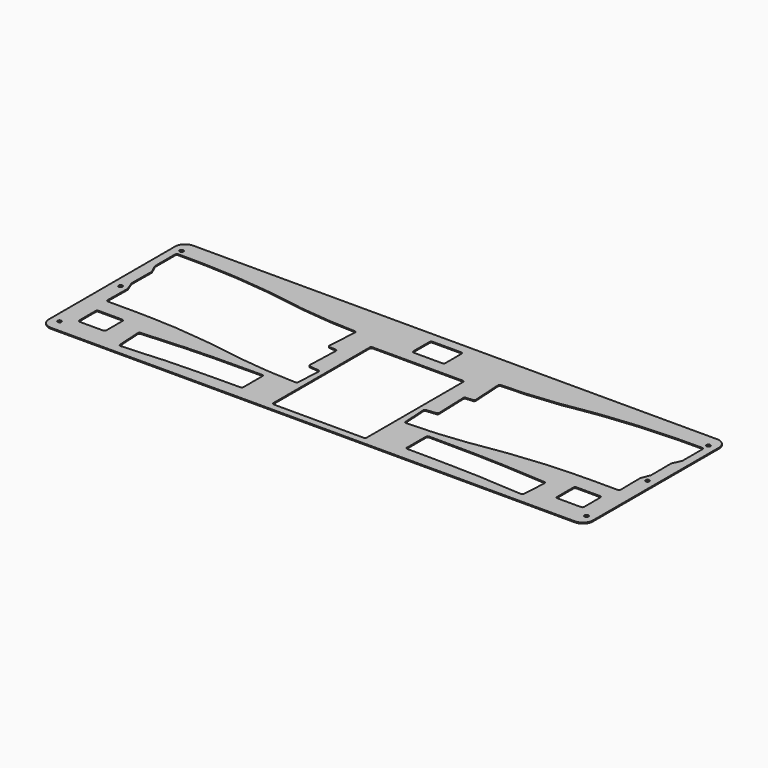
from build123d import *

# Parameters (mm, degrees)
PAD_DEPTH = 0.6


with BuildPart() as part:
    # Sketch → Pad (new body)
    with BuildSketch(Plane.XY):
        with BuildLine():
            add(Edge.make_bspline(
                [(347, -34), (347, -28), (341, -28)],
                knots=[0, 0, 0, 1.570796, 1.570796, 1.570796], degree=2, weights=[1, 0.707107, 1]))
            add(Edge.make_bspline(
                [(31.05, -28), (341, -28)],
                knots=[0, 0, 309.5, 309.5], degree=1))
            add(Edge.make_bspline(
                [(31.05, -28), (25.05, -28), (25.05, -34)],
                knots=[0, 0, 0, 1.570796, 1.570796, 1.570796], degree=2, weights=[1, 0.707107, 1]))
            add(Edge.make_bspline(
                [(25.05, -34), (25.05, -127.2)],
                knots=[0, 0, 93.2, 93.2], degree=1))
            add(Edge.make_bspline(
                [(25.05, -127.2), (25.05, -133.2), (31.05, -133.2)],
                knots=[0, 0, 0, 1.570796, 1.570796, 1.570796], degree=2, weights=[1, 0.707107, 1]))
            add(Edge.make_bspline(
                [(31.05, -133.2), (341, -133.2)],
                knots=[0, 0, 309.95, 309.95], degree=1))
            add(Edge.make_bspline(
                [(341, -133.2), (347, -133.2), (347, -127.2)],
                knots=[0, 0, 0, 1.570796, 1.570796, 1.570796], degree=2, weights=[1, 0.707107, 1]))
            add(Edge.make_bspline(
                [(347, -127.2), (347, -34)],
                knots=[0, 0, 93.2, 93.2], degree=1))
        make_face()
        with BuildLine():
            add(Edge.make_bspline(
                [(289.3198, -126.5268), (279.2218, -125.8517)],
                knots=[0, 0, 10.120542, 10.120542], degree=1))
            add(Edge.make_bspline(
                [(279.2218, -125.8517), (279.203167, -125.850451), (279.1845, -125.8499)],
                knots=[0, 0, 0, 0.037428, 0.037428, 0.037428], degree=2, weights=[1, 0.999825, 1]))
            add(Edge.make_bspline(
                [(279.1845, -125.8499), (263.1413, -125.3779)],
                knots=[0, 0, 16.050142, 16.050142], degree=1))
            add(Edge.make_bspline(
                [(263.1413, -125.3779), (263.135351, -125.377713), (263.1294, -125.3776)],
                knots=[0, 0, 0, 0.012397, 0.012397, 0.012397], degree=2, weights=[1, 0.999981, 1]))
            add(Edge.make_bspline(
                [(263.1294, -125.3776), (250.6408, -125.1591)],
                knots=[0, 0, 12.490511, 12.490511], degree=1))
            add(Edge.make_bspline(
                [(250.6408, -125.1591), (250.635101, -125.158967), (250.6294, -125.1589)],
                knots=[0, 0, 0, 0.011443, 0.011443, 0.011443], degree=2, weights=[1, 0.999984, 1]))
            add(Edge.make_bspline(
                [(250.6294, -125.1589), (235.4036, -125.0672)],
                knots=[0, 0, 15.226076, 15.226076], degree=1))
            add(Edge.make_bspline(
                [(234.4097, -124.0655), (234.407989, -125.061128), (235.4036, -125.0672)],
                knots=[0, 0, 0, 1.566416, 1.566416, 1.566416], degree=2, weights=[1, 0.708654, 1]))
            add(Edge.make_bspline(
                [(234.4097, -124.0655), (234.4339, -110.005)],
                knots=[0, 0, 14.060521, 14.060521], degree=1))
            add(Edge.make_bspline(
                [(235.4428, -109.0068), (234.435673, -108.997835), (234.4339, -110.005)],
                knots=[0, 0, 0, 1.577938, 1.577938, 1.577938], degree=2, weights=[1, 0.704577, 1]))
            add(Edge.make_bspline(
                [(235.4428, -109.0068), (263.5986, -109.2573)],
                knots=[0, 0, 28.156914, 28.156914], degree=1))
            add(Edge.make_bspline(
                [(263.6223, -109.2578), (263.610453, -109.257409), (263.5986, -109.2573)],
                knots=[0, 0, 0, 0.023839, 0.023839, 0.023839], degree=2, weights=[1, 0.999929, 1]))
            add(Edge.make_bspline(
                [(263.6223, -109.2578), (279.674, -109.7809)],
                knots=[0, 0, 16.060221, 16.060221], degree=1))
            add(Edge.make_bspline(
                [(279.6984, -109.782), (279.686207, -109.781303), (279.674, -109.7809)],
                knots=[0, 0, 0, 0.024162, 0.024162, 0.024162], degree=2, weights=[1, 0.999927, 1]))
            add(Edge.make_bspline(
                [(279.6984, -109.782), (290.3783, -110.3911)],
                knots=[0, 0, 10.697255, 10.697255], degree=1))
            add(Edge.make_bspline(
                [(290.3818, -110.3913), (290.38005, -110.391198), (290.3783, -110.3911)],
                knots=[0, 0, 0, 0.002328, 0.002328, 0.002328], degree=2, weights=[1, 0.999999, 1]))
            add(Edge.make_bspline(
                [(290.3818, -110.3913), (305.4234, -111.3015)],
                knots=[0, 0, 15.069114, 15.069114], degree=1))
            add(Edge.make_bspline(
                [(306.3612, -112.3603), (306.421839, -111.361877), (305.4234, -111.3015)],
                knots=[0, 0, 0, 1.571059, 1.571059, 1.571059], degree=2, weights=[1, 0.707014, 1]))
            add(Edge.make_bspline(
                [(306.3612, -112.3603), (305.5052, -126.4735)],
                knots=[0, 0, 14.139135, 14.139135], degree=1))
            add(Edge.make_bspline(
                [(304.4487, -127.4112), (305.44474, -127.469406), (305.5052, -126.4735)],
                knots=[0, 0, 0, 1.568533, 1.568533, 1.568533], degree=2, weights=[1, 0.707907, 1]))
            add(Edge.make_bspline(
                [(304.4487, -127.4112), (289.3281, -126.5274)],
                knots=[0, 0, 15.146407, 15.146407], degree=1))
            add(Edge.make_bspline(
                [(289.3198, -126.5268), (289.323949, -126.527117), (289.3281, -126.5274)],
                knots=[0, 0, 0, 0.008124, 0.008124, 0.008124], degree=2, weights=[1, 0.999992, 1]))
        make_face(mode=Mode.SUBTRACT)
        with BuildLine():
            add(Edge.make_bspline(
                [(336.8372, -96.3), (337.849962, -96.29998), (337.8371, -95.2873)],
                knots=[0, 0, 0, 1.583477, 1.583477, 1.583477], degree=2, weights=[1, 0.702609, 1]))
            add(Edge.make_bspline(
                [(337.6525, -80.7951), (337.8371, -95.2873)],
                knots=[0, 0, 14.493376, 14.493376], degree=1))
            add(Edge.make_bspline(
                [(337.7211, -80.4182), (337.650026, -80.599957), (337.6525, -80.7951)],
                knots=[0, 0, 0, 0.385435, 0.385435, 0.385435], degree=2, weights=[1, 0.981487, 1]))
            add(Edge.make_bspline(
                [(339.6801, -75.4082), (337.7211, -80.4182)],
                knots=[0, 0, 5.379385, 5.379385], degree=1))
            add(Edge.make_bspline(
                [(339.6801, -75.4082), (339.749987, -75.229384), (339.7487, -75.0374)],
                knots=[0, 0, 0, 0.379286, 0.379286, 0.379286], degree=2, weights=[1, 0.982072, 1]))
            add(Edge.make_bspline(
                [(339.6515, -60.4231), (339.7487, -75.0374)],
                knots=[0, 0, 14.614623, 14.614623], degree=1))
            add(Edge.make_bspline(
                [(339.7435, -59.9974), (339.649999, -60.199984), (339.6515, -60.4231)],
                knots=[0, 0, 0, 0.439135, 0.439135, 0.439135], degree=2, weights=[1, 0.975992, 1]))
            add(Edge.make_bspline(
                [(341.958, -55.1994), (339.7435, -59.9974)],
                knots=[0, 0, 5.284393, 5.284393], degree=1))
            add(Edge.make_bspline(
                [(341.958, -55.1994), (342.049992, -54.999999), (342.05, -54.7804)],
                knots=[0, 0, 0, 0.432209, 0.432209, 0.432209], degree=2, weights=[1, 0.97674, 1]))
            add(Edge.make_bspline(
                [(342.05, -40.0086), (342.05, -54.7804)],
                knots=[0, 0, 14.7718, 14.7718], degree=1))
            add(Edge.make_bspline(
                [(342.05, -40.0086), (342.050037, -38.999925), (341.0414, -39.0086)],
                knots=[0, 0, 0, 1.579433, 1.579433, 1.579433], degree=2, weights=[1, 0.704047, 1]))
            add(Edge.make_bspline(
                [(326.65, -39.1319), (341.0414, -39.0086)],
                knots=[0, 0, 14.391928, 14.391928], degree=1))
            add(Edge.make_bspline(
                [(321.75, -39.3), (326.65, -39.1319)],
                knots=[0, 0, 4.902883, 4.902883], degree=1))
            add(Edge.make_bspline(
                [(306.75, -40.0387), (321.75, -39.3)],
                knots=[0, 0, 15.018178, 15.018178], degree=1))
            add(Edge.make_bspline(
                [(301.65, -40.4868), (306.75, -40.0387)],
                knots=[0, 0, 5.119648, 5.119648], degree=1))
            add(Edge.make_bspline(
                [(286.75, -42), (301.65, -40.4868)],
                knots=[0, 0, 14.976641, 14.976641], degree=1))
            add(Edge.make_bspline(
                [(281.85, -42.6), (286.75, -42)],
                knots=[0, 0, 4.936598, 4.936598], degree=1))
            add(Edge.make_bspline(
                [(266.85, -44.9), (281.85, -42.6)],
                knots=[0, 0, 15.175309, 15.175309], degree=1))
            add(Edge.make_bspline(
                [(262.95, -45.6), (266.85, -44.9)],
                knots=[0, 0, 3.962323, 3.962323], degree=1))
            add(Edge.make_bspline(
                [(248.05, -47.1), (262.95, -45.6)],
                knots=[0, 0, 14.975313, 14.975313], degree=1))
            add(Edge.make_bspline(
                [(244.05, -47.5), (248.05, -47.1)],
                knots=[0, 0, 4.01995, 4.01995], degree=1))
            add(Edge.make_bspline(
                [(229.2634, -48.1552), (244.05, -47.5)],
                knots=[0, 0, 14.801109, 14.801109], degree=1))
            add(Edge.make_bspline(
                [(229.2634, -48.1552), (228.251376, -48.19994), (228.3093, -49.2113)],
                knots=[0, 0, 0, 1.583729, 1.583729, 1.583729], degree=2, weights=[1, 0.70252, 1]))
            add(Edge.make_bspline(
                [(229.3547, -66.7984), (228.3093, -49.2113)],
                knots=[0, 0, 17.618143, 17.618143], degree=1))
            add(Edge.make_bspline(
                [(228.4127, -67.8561), (229.41427, -67.799782), (229.3547, -66.7984)],
                knots=[0, 0, 0, 1.574044, 1.574044, 1.574044], degree=2, weights=[1, 0.705958, 1]))
            add(Edge.make_bspline(
                [(224.6266, -68.0694), (228.4127, -67.8561)],
                knots=[0, 0, 3.792104, 3.792104], degree=1))
            add(Edge.make_bspline(
                [(224.6266, -68.0694), (223.64956, -68.124398), (223.6834, -69.1024)],
                knots=[0, 0, 0, 1.549152, 1.549152, 1.549152], degree=2, weights=[1, 0.714718, 1]))
            add(Edge.make_bspline(
                [(224.3232, -87.5892), (223.6834, -69.1024)],
                knots=[0, 0, 18.497868, 18.497868], degree=1))
            add(Edge.make_bspline(
                [(223.431, -88.6183), (224.355621, -88.518614), (224.3232, -87.5892)],
                knots=[0, 0, 0, 1.498267, 1.498267, 1.498267], degree=2, weights=[1, 0.732279, 1]))
            add(Edge.make_bspline(
                [(217.8332, -89.2214), (223.431, -88.6183)],
                knots=[0, 0, 5.630195, 5.630195], degree=1))
            add(Edge.make_bspline(
                [(217.8332, -89.2214), (216.885488, -89.324168), (216.9428, -90.2757)],
                knots=[0, 0, 0, 1.523044, 1.523044, 1.523044], degree=2, weights=[1, 0.723787, 1]))
            add(Edge.make_bspline(
                [(217.7875, -104.3194), (216.9428, -90.2757)],
                knots=[0, 0, 14.069081, 14.069081], degree=1))
            add(Edge.make_bspline(
                [(217.7875, -104.3194), (217.850033, -105.299918), (218.8315, -105.2548)],
                knots=[0, 0, 0, 1.553146, 1.553146, 1.553146], degree=2, weights=[1, 0.71332, 1]))
            add(Edge.make_bspline(
                [(233.05, -104.6), (218.8315, -105.2548)],
                knots=[0, 0, 14.23357, 14.23357], degree=1))
            add(Edge.make_bspline(
                [(238.15, -104.2), (233.05, -104.6)],
                knots=[0, 0, 5.115662, 5.115662], degree=1))
            add(Edge.make_bspline(
                [(253.05, -102.6), (238.15, -104.2)],
                knots=[0, 0, 14.98566, 14.98566], degree=1))
            add(Edge.make_bspline(
                [(258.15, -101.8), (253.05, -102.6)],
                knots=[0, 0, 5.162364, 5.162364], degree=1))
            add(Edge.make_bspline(
                [(272.95, -99.6), (258.15, -101.8)],
                knots=[0, 0, 14.96262, 14.96262], degree=1))
            add(Edge.make_bspline(
                [(272.95, -99.6), (276.95, -99.1)],
                knots=[0, 0, 4.031129, 4.031129], degree=1))
            add(Edge.make_bspline(
                [(291.95, -97.6), (276.95, -99.1)],
                knots=[0, 0, 15.074813, 15.074813], degree=1))
            add(Edge.make_bspline(
                [(295.85, -97.2), (291.95, -97.6)],
                knots=[0, 0, 3.920459, 3.920459], degree=1))
            add(Edge.make_bspline(
                [(310.95, -96.5), (295.85, -97.2)],
                knots=[0, 0, 15.116216, 15.116216], degree=1))
            add(Edge.make_bspline(
                [(310.95, -96.5), (321.85, -96.3)],
                knots=[0, 0, 10.901835, 10.901835], degree=1))
            add(Edge.make_bspline(
                [(336.8372, -96.3), (321.85, -96.3)],
                knots=[0, 0, 14.9872, 14.9872], degree=1))
        make_face(mode=Mode.SUBTRACT)
        with BuildLine():
            add(Edge.make_bspline(
                [(334.3814, -120.3), (335.3814, -120.3), (335.3814, -119.3)],
                knots=[0, 0, 0, 1.570796, 1.570796, 1.570796], degree=2, weights=[1, 0.707107, 1]))
            add(Edge.make_bspline(
                [(335.3814, -107.2), (335.3814, -119.3)],
                knots=[0, 0, 12.1, 12.1], degree=1))
            add(Edge.make_bspline(
                [(335.3814, -107.2), (335.3814, -106.2), (334.3814, -106.2)],
                knots=[0, 0, 0, 1.570796, 1.570796, 1.570796], degree=2, weights=[1, 0.707107, 1]))
            add(Edge.make_bspline(
                [(334.3814, -106.2), (320.3814, -106.2)],
                knots=[0, 0, 14, 14], degree=1))
            add(Edge.make_bspline(
                [(320.3814, -106.2), (319.3814, -106.2), (319.3814, -107.2)],
                knots=[0, 0, 0, 1.570796, 1.570796, 1.570796], degree=2, weights=[1, 0.707107, 1]))
            add(Edge.make_bspline(
                [(319.3814, -119.3), (319.3814, -107.2)],
                knots=[0, 0, 12.1, 12.1], degree=1))
            add(Edge.make_bspline(
                [(319.3814, -119.3), (319.3814, -120.3), (320.3814, -120.3)],
                knots=[0, 0, 0, 1.570796, 1.570796, 1.570796], degree=2, weights=[1, 0.707107, 1]))
            add(Edge.make_bspline(
                [(334.3814, -120.3), (320.3814, -120.3)],
                knots=[0, 0, 14, 14], degree=1))
        make_face(mode=Mode.SUBTRACT)
        with BuildLine():
            add(Edge.make_bspline(
                [(159.3822, -55.6675), (212.6732, -55.6675)],
                knots=[0, 0, 53.291002, 53.291002], degree=1))
            add(Edge.make_bspline(
                [(213.6733, -56.6675), (213.6732, -55.6675), (212.6732, -55.6675)],
                knots=[0, 0, 0, 1.570696, 1.570696, 1.570696], degree=2, weights=[1, 0.707142, 1]))
            add(Edge.make_bspline(
                [(213.6733, -56.6675), (213.6732, -127.8829)],
                knots=[0, 0, 71.2154, 71.2154], degree=1))
            add(Edge.make_bspline(
                [(212.6727, -128.8976), (213.6732, -128.8834), (213.6732, -127.8829)],
                knots=[0, 0, 0, 1.571296, 1.571296, 1.571296], degree=2, weights=[1, 0.70693, 1]))
            add(Edge.make_bspline(
                [(159.3782, -128.8729), (212.6727, -128.8976)],
                knots=[0, 0, 53.294506, 53.294506], degree=1))
            add(Edge.make_bspline(
                [(158.3786, -127.8729), (158.3786, -128.8725), (159.3782, -128.8729)],
                knots=[0, 0, 0, 1.570396, 1.570396, 1.570396], degree=2, weights=[1, 0.707248, 1]))
            add(Edge.make_bspline(
                [(158.3786, -56.6675), (158.3786, -127.8729)],
                knots=[0, 0, 71.2054, 71.2054], degree=1))
            add(Edge.make_bspline(
                [(159.3822, -55.6675), (158.378593, -55.663887), (158.3786, -56.6675)],
                knots=[0, 0, 0, 1.574403, 1.574403, 1.574403], degree=2, weights=[1, 0.705831, 1]))
        make_face(mode=Mode.SUBTRACT)
        with BuildLine():
            add(Edge.make_bspline(
                [(177.51, -33.994), (176.513488, -33.993994), (176.51, -34.9905)],
                knots=[0, 0, 0, 1.567302, 1.567302, 1.567302], degree=2, weights=[1, 0.708341, 1]))
            add(Edge.make_bspline(
                [(176.51, -34.9905), (176.4684, -46.9905)],
                knots=[0, 0, 12.000072, 12.000072], degree=1))
            add(Edge.make_bspline(
                [(176.4684, -46.9905), (176.464888, -47.994006), (177.4684, -47.994)],
                knots=[0, 0, 0, 1.574302, 1.574302, 1.574302], degree=2, weights=[1, 0.705866, 1]))
            add(Edge.make_bspline(
                [(177.4684, -47.994), (194.4571, -47.994)],
                knots=[0, 0, 16.9887, 16.9887], degree=1))
            add(Edge.make_bspline(
                [(194.4571, -47.994), (195.4571, -47.994), (195.4571, -46.994)],
                knots=[0, 0, 0, 1.570896, 1.570896, 1.570896], degree=2, weights=[1, 0.707071, 1]))
            add(Edge.make_bspline(
                [(195.4571, -34.994), (195.4571, -46.994)],
                knots=[0, 0, 12, 12], degree=1))
            add(Edge.make_bspline(
                [(195.4571, -34.994), (195.4571, -33.994), (194.4571, -33.994)],
                knots=[0, 0, 0, 1.570796, 1.570796, 1.570796], degree=2, weights=[1, 0.707107, 1]))
            add(Edge.make_bspline(
                [(177.51, -33.994), (194.4571, -33.994)],
                knots=[0, 0, 16.9471, 16.9471], degree=1))
        make_face(mode=Mode.SUBTRACT)
        with BuildLine():
            add(Edge.make_bspline(
                [(142.6953, -66.7984), (143.7408, -49.2113)],
                knots=[0, 0, 17.618143, 17.618143], degree=1))
            add(Edge.make_bspline(
                [(143.7408, -49.2113), (143.798618, -48.199944), (142.7866, -48.1552)],
                knots=[0, 0, 0, 1.583719, 1.583719, 1.583719], degree=2, weights=[1, 0.702523, 1]))
            add(Edge.make_bspline(
                [(142.7866, -48.1552), (128, -47.5)],
                knots=[0, 0, 14.801109, 14.801109], degree=1))
            add(Edge.make_bspline(
                [(128, -47.5), (124, -47.1)],
                knots=[0, 0, 4.01995, 4.01995], degree=1))
            add(Edge.make_bspline(
                [(124, -47.1), (109.1, -45.6)],
                knots=[0, 0, 14.975313, 14.975313], degree=1))
            add(Edge.make_bspline(
                [(109.1, -45.6), (105.2, -44.9)],
                knots=[0, 0, 3.962323, 3.962323], degree=1))
            add(Edge.make_bspline(
                [(105.2, -44.9), (90.2, -42.6)],
                knots=[0, 0, 15.175309, 15.175309], degree=1))
            add(Edge.make_bspline(
                [(90.2, -42.6), (85.3, -42)],
                knots=[0, 0, 4.936598, 4.936598], degree=1))
            add(Edge.make_bspline(
                [(85.3, -42), (70.4, -40.4868)],
                knots=[0, 0, 14.976641, 14.976641], degree=1))
            add(Edge.make_bspline(
                [(70.4, -40.4868), (65.3, -40.0387)],
                knots=[0, 0, 5.119648, 5.119648], degree=1))
            add(Edge.make_bspline(
                [(65.3, -40.0387), (50.3, -39.3)],
                knots=[0, 0, 15.018178, 15.018178], degree=1))
            add(Edge.make_bspline(
                [(50.3, -39.3), (45.4, -39.1319)],
                knots=[0, 0, 4.902883, 4.902883], degree=1))
            add(Edge.make_bspline(
                [(45.4, -39.1319), (31.0086, -39.0086)],
                knots=[0, 0, 14.391928, 14.391928], degree=1))
            add(Edge.make_bspline(
                [(31.0086, -39.0086), (29.999963, -38.999925), (30, -40.0086)],
                knots=[0, 0, 0, 1.579433, 1.579433, 1.579433], degree=2, weights=[1, 0.704047, 1]))
            add(Edge.make_bspline(
                [(30, -40.0086), (30, -54.7804)],
                knots=[0, 0, 14.7718, 14.7718], degree=1))
            add(Edge.make_bspline(
                [(30, -54.7804), (30.000008, -54.999999), (30.092, -55.1994)],
                knots=[0, 0, 0, 0.432209, 0.432209, 0.432209], degree=2, weights=[1, 0.97674, 1]))
            add(Edge.make_bspline(
                [(30.092, -55.1994), (32.3065, -59.9974)],
                knots=[0, 0, 5.284393, 5.284393], degree=1))
            add(Edge.make_bspline(
                [(32.3985, -60.4231), (32.399986, -60.199988), (32.3065, -59.9974)],
                knots=[0, 0, 0, 0.439001, 0.439001, 0.439001], degree=2, weights=[1, 0.976006, 1]))
            add(Edge.make_bspline(
                [(32.3985, -60.4231), (32.3013, -75.0374)],
                knots=[0, 0, 14.614623, 14.614623], degree=1))
            add(Edge.make_bspline(
                [(32.3013, -75.0374), (32.300013, -75.229384), (32.3699, -75.4082)],
                knots=[0, 0, 0, 0.379286, 0.379286, 0.379286], degree=2, weights=[1, 0.982072, 1]))
            add(Edge.make_bspline(
                [(32.3699, -75.4082), (34.3289, -80.4182)],
                knots=[0, 0, 5.379385, 5.379385], degree=1))
            add(Edge.make_bspline(
                [(34.3975, -80.7951), (34.399963, -80.599959), (34.3289, -80.4182)],
                knots=[0, 0, 0, 0.385318, 0.385318, 0.385318], degree=2, weights=[1, 0.981499, 1]))
            add(Edge.make_bspline(
                [(34.3975, -80.7951), (34.2129, -95.2873)],
                knots=[0, 0, 14.493376, 14.493376], degree=1))
            add(Edge.make_bspline(
                [(34.2129, -95.2873), (34.200038, -96.29998), (35.2128, -96.3)],
                knots=[0, 0, 0, 1.583477, 1.583477, 1.583477], degree=2, weights=[1, 0.702609, 1]))
            add(Edge.make_bspline(
                [(35.2128, -96.3), (50.2, -96.3)],
                knots=[0, 0, 14.9872, 14.9872], degree=1))
            add(Edge.make_bspline(
                [(61.1, -96.5), (50.2, -96.3)],
                knots=[0, 0, 10.901835, 10.901835], degree=1))
            add(Edge.make_bspline(
                [(61.1, -96.5), (76.2, -97.2)],
                knots=[0, 0, 15.116216, 15.116216], degree=1))
            add(Edge.make_bspline(
                [(76.2, -97.2), (80.1, -97.6)],
                knots=[0, 0, 3.920459, 3.920459], degree=1))
            add(Edge.make_bspline(
                [(80.1, -97.6), (95.1, -99.1)],
                knots=[0, 0, 15.074813, 15.074813], degree=1))
            add(Edge.make_bspline(
                [(99.1, -99.6), (95.1, -99.1)],
                knots=[0, 0, 4.031129, 4.031129], degree=1))
            add(Edge.make_bspline(
                [(99.1, -99.6), (113.9, -101.8)],
                knots=[0, 0, 14.96262, 14.96262], degree=1))
            add(Edge.make_bspline(
                [(113.9, -101.8), (119, -102.6)],
                knots=[0, 0, 5.162364, 5.162364], degree=1))
            add(Edge.make_bspline(
                [(119, -102.6), (133.9, -104.2)],
                knots=[0, 0, 14.98566, 14.98566], degree=1))
            add(Edge.make_bspline(
                [(133.9, -104.2), (139, -104.6)],
                knots=[0, 0, 5.115662, 5.115662], degree=1))
            add(Edge.make_bspline(
                [(139, -104.6), (153.2185, -105.2548)],
                knots=[0, 0, 14.23357, 14.23357], degree=1))
            add(Edge.make_bspline(
                [(153.2185, -105.2548), (154.200065, -105.30002), (154.2625, -104.3194)],
                knots=[0, 0, 0, 1.55325, 1.55325, 1.55325], degree=2, weights=[1, 0.713283, 1]))
            add(Edge.make_bspline(
                [(154.2625, -104.3194), (155.1072, -90.2757)],
                knots=[0, 0, 14.069081, 14.069081], degree=1))
            add(Edge.make_bspline(
                [(155.1072, -90.2757), (155.16442, -89.32423), (154.2168, -89.2214)],
                knots=[0, 0, 0, 1.522666, 1.522666, 1.522666], degree=2, weights=[1, 0.723917, 1]))
            add(Edge.make_bspline(
                [(154.2168, -89.2214), (148.619, -88.6183)],
                knots=[0, 0, 5.630195, 5.630195], degree=1))
            add(Edge.make_bspline(
                [(147.7268, -87.5892), (147.694379, -88.518614), (148.619, -88.6183)],
                knots=[0, 0, 0, 1.498267, 1.498267, 1.498267], degree=2, weights=[1, 0.732279, 1]))
            add(Edge.make_bspline(
                [(147.7268, -87.5892), (148.3666, -69.1024)],
                knots=[0, 0, 18.497868, 18.497868], degree=1))
            add(Edge.make_bspline(
                [(148.3666, -69.1024), (148.400441, -68.124401), (147.4234, -68.0694)],
                knots=[0, 0, 0, 1.549254, 1.549254, 1.549254], degree=2, weights=[1, 0.714682, 1]))
            add(Edge.make_bspline(
                [(147.4234, -68.0694), (143.6373, -67.8561)],
                knots=[0, 0, 3.792104, 3.792104], degree=1))
            add(Edge.make_bspline(
                [(142.6953, -66.7984), (142.635836, -67.799687), (143.6373, -67.8561)],
                knots=[0, 0, 0, 1.573843, 1.573843, 1.573843], degree=2, weights=[1, 0.706029, 1]))
        make_face(mode=Mode.SUBTRACT)
        with BuildLine():
            add(Edge.make_bspline(
                [(37.6686, -106.2), (36.6686, -106.2), (36.6686, -107.2)],
                knots=[0, 0, 0, 1.570796, 1.570796, 1.570796], degree=2, weights=[1, 0.707107, 1]))
            add(Edge.make_bspline(
                [(36.6686, -107.2), (36.6686, -119.3)],
                knots=[0, 0, 12.1, 12.1], degree=1))
            add(Edge.make_bspline(
                [(36.6686, -119.3), (36.6686, -120.3), (37.6686, -120.3)],
                knots=[0, 0, 0, 1.570796, 1.570796, 1.570796], degree=2, weights=[1, 0.707107, 1]))
            add(Edge.make_bspline(
                [(37.6686, -120.3), (51.6686, -120.3)],
                knots=[0, 0, 14, 14], degree=1))
            add(Edge.make_bspline(
                [(51.6686, -120.3), (52.6686, -120.3), (52.6686, -119.3)],
                knots=[0, 0, 0, 1.570796, 1.570796, 1.570796], degree=2, weights=[1, 0.707107, 1]))
            add(Edge.make_bspline(
                [(52.6686, -119.3), (52.6686, -107.2)],
                knots=[0, 0, 12.1, 12.1], degree=1))
            add(Edge.make_bspline(
                [(52.6686, -107.2), (52.6686, -106.2), (51.6686, -106.2)],
                knots=[0, 0, 0, 1.570796, 1.570796, 1.570796], degree=2, weights=[1, 0.707107, 1]))
            add(Edge.make_bspline(
                [(37.6686, -106.2), (51.6686, -106.2)],
                knots=[0, 0, 14, 14], degree=1))
        make_face(mode=Mode.SUBTRACT)
        with BuildLine():
            add(Edge.make_bspline(
                [(108.9206, -125.3776), (121.4092, -125.1591)],
                knots=[0, 0, 12.490511, 12.490511], degree=1))
            add(Edge.make_bspline(
                [(121.4092, -125.1591), (136.6464, -125.0672)],
                knots=[0, 0, 15.226076, 15.226076], degree=1))
            add(Edge.make_bspline(
                [(136.6464, -125.0672), (137.642011, -125.061128), (137.6403, -124.0655)],
                knots=[0, 0, 0, 1.566416, 1.566416, 1.566416], degree=2, weights=[1, 0.708654, 1]))
            add(Edge.make_bspline(
                [(137.6403, -124.0655), (137.6161, -110.005)],
                knots=[0, 0, 14.060521, 14.060521], degree=1))
            add(Edge.make_bspline(
                [(137.6161, -110.005), (137.614327, -108.997835), (136.6072, -109.0068)],
                knots=[0, 0, 0, 1.577938, 1.577938, 1.577938], degree=2, weights=[1, 0.704577, 1]))
            add(Edge.make_bspline(
                [(136.6072, -109.0068), (108.4514, -109.2573)],
                knots=[0, 0, 28.156914, 28.156914], degree=1))
            add(Edge.make_bspline(
                [(108.4514, -109.2573), (108.439547, -109.257409), (108.4277, -109.2578)],
                knots=[0, 0, 0, 0.023839, 0.023839, 0.023839], degree=2, weights=[1, 0.999929, 1]))
            add(Edge.make_bspline(
                [(108.4277, -109.2578), (92.376, -109.7809)],
                knots=[0, 0, 16.060221, 16.060221], degree=1))
            add(Edge.make_bspline(
                [(92.376, -109.7809), (92.363793, -109.781303), (92.3516, -109.782)],
                knots=[0, 0, 0, 0.024162, 0.024162, 0.024162], degree=2, weights=[1, 0.999927, 1]))
            add(Edge.make_bspline(
                [(92.3516, -109.782), (81.6717, -110.3911)],
                knots=[0, 0, 10.697255, 10.697255], degree=1))
            add(Edge.make_bspline(
                [(81.6717, -110.3911), (81.66995, -110.391198), (81.6682, -110.3913)],
                knots=[0, 0, 0, 0.002328, 0.002328, 0.002328], degree=2, weights=[1, 0.999999, 1]))
            add(Edge.make_bspline(
                [(81.6682, -110.3913), (66.6266, -111.3015)],
                knots=[0, 0, 15.069114, 15.069114], degree=1))
            add(Edge.make_bspline(
                [(66.6266, -111.3015), (65.628161, -111.361882), (65.6888, -112.3603)],
                knots=[0, 0, 0, 1.571154, 1.571154, 1.571154], degree=2, weights=[1, 0.70698, 1]))
            add(Edge.make_bspline(
                [(65.6888, -112.3603), (66.5448, -126.4735)],
                knots=[0, 0, 14.139135, 14.139135], degree=1))
            add(Edge.make_bspline(
                [(66.5448, -126.4735), (66.60526, -127.469406), (67.6013, -127.4112)],
                knots=[0, 0, 0, 1.568533, 1.568533, 1.568533], degree=2, weights=[1, 0.707907, 1]))
            add(Edge.make_bspline(
                [(67.6013, -127.4112), (82.7219, -126.5274)],
                knots=[0, 0, 15.146407, 15.146407], degree=1))
            add(Edge.make_bspline(
                [(82.7219, -126.5274), (82.726051, -126.527117), (82.7302, -126.5268)],
                knots=[0, 0, 0, 0.008124, 0.008124, 0.008124], degree=2, weights=[1, 0.999992, 1]))
            add(Edge.make_bspline(
                [(82.7302, -126.5268), (92.8282, -125.8517)],
                knots=[0, 0, 10.120542, 10.120542], degree=1))
            add(Edge.make_bspline(
                [(92.8655, -125.8499), (92.846833, -125.850451), (92.8282, -125.8517)],
                knots=[0, 0, 0, 0.037428, 0.037428, 0.037428], degree=2, weights=[1, 0.999825, 1]))
            add(Edge.make_bspline(
                [(92.8655, -125.8499), (108.9087, -125.3779)],
                knots=[0, 0, 16.050142, 16.050142], degree=1))
            add(Edge.make_bspline(
                [(108.9206, -125.3776), (108.914649, -125.377713), (108.9087, -125.3779)],
                knots=[0, 0, 0, 0.012397, 0.012397, 0.012397], degree=2, weights=[1, 0.999981, 1]))
        make_face(mode=Mode.SUBTRACT)
        with BuildLine():
            add(Edge.make_bspline(
                [(343, -80.6), (343, -78.694744), (341.35, -79.647372), (339.7, -80.6), (341.35, -81.552628), (343, -82.505256), (343, -80.6)],
                knots=[0, 0, 0, 2.094395, 2.094395, 4.18879, 4.18879, 6.283185, 6.283185, 6.283185], degree=2, weights=[1, 0.5, 1, 0.5, 1, 0.5, 1]))
        make_face(mode=Mode.SUBTRACT)
        with BuildLine():
            add(Edge.make_bspline(
                [(343, -125.7), (343, -123.794744), (341.35, -124.747372), (339.7, -125.7), (341.35, -126.652628), (343, -127.605256), (343, -125.7)],
                knots=[0, 0, 0, 2.094395, 2.094395, 4.18879, 4.18879, 6.283185, 6.283185, 6.283185], degree=2, weights=[1, 0.5, 1, 0.5, 1, 0.5, 1]))
        make_face(mode=Mode.SUBTRACT)
        with BuildLine():
            add(Edge.make_bspline(
                [(343, -35.5), (343, -33.594744), (341.35, -34.547372), (339.7, -35.5), (341.35, -36.452628), (343, -37.405256), (343, -35.5)],
                knots=[0, 0, 0, 2.094395, 2.094395, 4.18879, 4.18879, 6.283185, 6.283185, 6.283185], degree=2, weights=[1, 0.5, 1, 0.5, 1, 0.5, 1]))
        make_face(mode=Mode.SUBTRACT)
        with BuildLine():
            add(Edge.make_bspline(
                [(31.25, -80.6), (31.25, -78.694744), (29.6, -79.647372), (27.95, -80.6), (29.6, -81.552628), (31.25, -82.505256), (31.25, -80.6)],
                knots=[0, 0, 0, 2.094395, 2.094395, 4.18879, 4.18879, 6.283185, 6.283185, 6.283185], degree=2, weights=[1, 0.5, 1, 0.5, 1, 0.5, 1]))
        make_face(mode=Mode.SUBTRACT)
        with BuildLine():
            add(Edge.make_bspline(
                [(31.25, -125.7), (31.25, -123.794744), (29.6, -124.747372), (27.95, -125.7), (29.6, -126.652628), (31.25, -127.605256), (31.25, -125.7)],
                knots=[0, 0, 0, 2.094395, 2.094395, 4.18879, 4.18879, 6.283185, 6.283185, 6.283185], degree=2, weights=[1, 0.5, 1, 0.5, 1, 0.5, 1]))
        make_face(mode=Mode.SUBTRACT)
        with BuildLine():
            add(Edge.make_bspline(
                [(31.25, -35.5), (31.25, -33.594744), (29.6, -34.547372), (27.95, -35.5), (29.6, -36.452628), (31.25, -37.405256), (31.25, -35.5)],
                knots=[0, 0, 0, 2.094395, 2.094395, 4.18879, 4.18879, 6.283185, 6.283185, 6.283185], degree=2, weights=[1, 0.5, 1, 0.5, 1, 0.5, 1]))
        make_face(mode=Mode.SUBTRACT)
    extrude(amount=PAD_DEPTH)


solid = part.part
